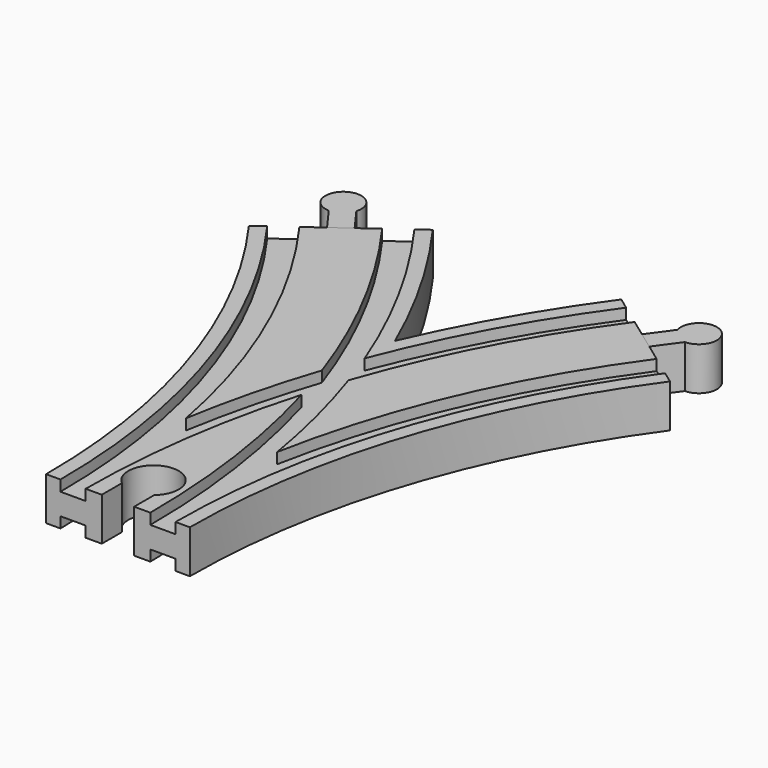
from build123d import *

# Parameters (mm, degrees)
SKETCH003_W       = 7
SKETCH003_H       = 3
SKETCH004_W       = 7
SKETCH004_H       = 3
SKETCH005_W       = 7
SKETCH005_H       = 3
SKETCH006_W       = 7
SKETCH006_H       = 3
POCKET_DEPTH      = 6.001
POCKET_DEPTH_BACK = -6.001
PAD001_DEPTH      = 6
PAD002_DEPTH      = 6


with BuildPart() as main:
    # AdditivePipe: sweep along a path in Sketch
    with BuildLine(Plane.XY) as additivepipe_path:
        ThreePointArc((0, 0), (-10.865453, 68.601773), (-42.398227, 130.488326))
    # Sketch002 → AdditivePipe (sweep)
    with BuildSketch(Plane.XZ):
        Polygon((-20, 6), (-20, -6), (-16, -6), (-16, -3), (-9, -3), (-9, -6), (9, -6), (9, -3), (16, -3), (16, -6), (20, -6), (20, 6), (16, 6), (16, 3), (9, 3), (9, 6), (-9, 6), (-9, 3), (-16, 3), (-16, 6), align=None)
    sweep(path=additivepipe_path.line)

    # AdditivePipe001: sweep along a path in Sketch001
    with BuildLine(Plane.XY) as additivepipe001_path:
        ThreePointArc((42.398227, 130.488326), (10.865453, 68.601773), (0, 0))
    # Sketch002 → AdditivePipe001 (sweep)
    with BuildSketch(Plane.XZ):
        Polygon((-20, 6), (-20, -6), (-16, -6), (-16, -3), (-9, -3), (-9, -6), (9, -6), (9, -3), (16, -3), (16, -6), (20, -6), (20, 6), (16, 6), (16, 3), (9, 3), (9, 6), (-9, 6), (-9, 3), (-16, 3), (-16, 6), align=None)
    sweep(path=additivepipe001_path.line)

    # SubtractivePipe: sweep along a path in Sketch
    with BuildLine(Plane.XY) as subtractivepipe_path:
        ThreePointArc((0, 0), (-10.865453, 68.601773), (-42.398227, 130.488326))
    # Sketch003 → SubtractivePipe (sweep, cut)
    with BuildSketch(Plane.XZ):
        with Locations((-12.5, 4.5)):
            Rectangle(SKETCH003_W, SKETCH003_H)
    sweep(path=subtractivepipe_path.line, mode=Mode.SUBTRACT)

    # SubtractivePipe001: sweep along a path in Sketch001
    with BuildLine(Plane.XY) as subtractivepipe001_path:
        ThreePointArc((42.398227, 130.488326), (10.865453, 68.601773), (0, 0))
    # Sketch003 → SubtractivePipe001 (sweep, cut)
    with BuildSketch(Plane.XZ):
        with Locations((-12.5, 4.5)):
            Rectangle(SKETCH003_W, SKETCH003_H)
    sweep(path=subtractivepipe001_path.line, mode=Mode.SUBTRACT)

    # SubtractivePipe002: sweep along a path in Sketch
    with BuildLine(Plane.XY) as subtractivepipe002_path:
        ThreePointArc((0, 0), (-10.865453, 68.601773), (-42.398227, 130.488326))
    # Sketch004 → SubtractivePipe002 (sweep, cut)
    with BuildSketch(Plane.XZ):
        with Locations((12.5, 4.5)):
            Rectangle(SKETCH004_W, SKETCH004_H)
    sweep(path=subtractivepipe002_path.line, mode=Mode.SUBTRACT)

    # SubtractivePipe003: sweep along a path in Sketch001
    with BuildLine(Plane.XY) as subtractivepipe003_path:
        ThreePointArc((42.398227, 130.488326), (10.865453, 68.601773), (0, 0))
    # Sketch004 → SubtractivePipe003 (sweep, cut)
    with BuildSketch(Plane.XZ):
        with Locations((12.5, 4.5)):
            Rectangle(SKETCH004_W, SKETCH004_H)
    sweep(path=subtractivepipe003_path.line, mode=Mode.SUBTRACT)

    # SubtractivePipe004: sweep along a path in Sketch
    with BuildLine(Plane.XY) as subtractivepipe004_path:
        ThreePointArc((0, 0), (-10.865453, 68.601773), (-42.398227, 130.488326))
    # Sketch005 → SubtractivePipe004 (sweep, cut)
    with BuildSketch(Plane.XZ):
        with Locations((-12.5, -4.5)):
            Rectangle(SKETCH005_W, SKETCH005_H)
    sweep(path=subtractivepipe004_path.line, mode=Mode.SUBTRACT)

    # SubtractivePipe005: sweep along a path in Sketch001
    with BuildLine(Plane.XY) as subtractivepipe005_path:
        ThreePointArc((42.398227, 130.488326), (10.865453, 68.601773), (0, 0))
    # Sketch005 → SubtractivePipe005 (sweep, cut)
    with BuildSketch(Plane.XZ):
        with Locations((-12.5, -4.5)):
            Rectangle(SKETCH005_W, SKETCH005_H)
    sweep(path=subtractivepipe005_path.line, mode=Mode.SUBTRACT)

    # SubtractivePipe006: sweep along a path in Sketch
    with BuildLine(Plane.XY) as subtractivepipe006_path:
        ThreePointArc((0, 0), (-10.865453, 68.601773), (-42.398227, 130.488326))
    # Sketch006 → SubtractivePipe006 (sweep, cut)
    with BuildSketch(Plane.XZ):
        with Locations((12.5, -4.5)):
            Rectangle(SKETCH006_W, SKETCH006_H)
    sweep(path=subtractivepipe006_path.line, mode=Mode.SUBTRACT)

    # SubtractivePipe007: sweep along a path in Sketch001
    with BuildLine(Plane.XY) as subtractivepipe007_path:
        ThreePointArc((42.398227, 130.488326), (10.865453, 68.601773), (0, 0))
    # Sketch006 → SubtractivePipe007 (sweep, cut)
    with BuildSketch(Plane.XZ):
        with Locations((12.5, -4.5)):
            Rectangle(SKETCH006_W, SKETCH006_H)
    sweep(path=subtractivepipe007_path.line, mode=Mode.SUBTRACT)

    # Sketch007 → Pocket (cut, two sides)
    with BuildSketch(Plane.XY) as pocket_sk:
        with BuildLine():
            Line((-4.5, 0), (4.5, 0))
            Line((4.5, 0), (4.5, 7))
            ThreePointArc((4.5, 7), (0, 19.361903), (-4.5, 7))
            Line((-4.5, 0), (-4.5, 7))
        make_face()
    extrude(amount=-POCKET_DEPTH, mode=Mode.SUBTRACT)
    extrude(pocket_sk.sketch, amount=-POCKET_DEPTH_BACK, mode=Mode.SUBTRACT)


with BuildPart() as male3:
    # Sketch011 → Pad001 (new body, symmetric)
    with BuildSketch(Plane.XY):
        with BuildLine():
            Line((39.971176, 132.251682), (44.825278, 128.72497))
            Line((44.825278, 128.72497), (49.52756, 135.197106))
            ThreePointArc((49.52756, 135.197106), (52.390577, 144.241615), (44.673458, 138.723818))
            Line((39.971176, 132.251682), (44.673458, 138.723818))
        make_face()
    extrude(amount=PAD001_DEPTH, both=True)


with BuildPart() as male2:
    # Sketch012 → Pad002 (new body, symmetric)
    with BuildSketch(Plane.XY):
        with BuildLine():
            Line((-44.825278, 128.72497), (-39.971176, 132.251682))
            Line((-39.971176, 132.251682), (-44.673458, 138.723818))
            ThreePointArc((-44.673458, 138.723818), (-52.390577, 144.241615), (-49.52756, 135.197106))
            Line((-44.825278, 128.72497), (-49.52756, 135.197106))
        make_face()
    extrude(amount=PAD002_DEPTH, both=True)


solid = Compound([main.part, male3.part, male2.part])
